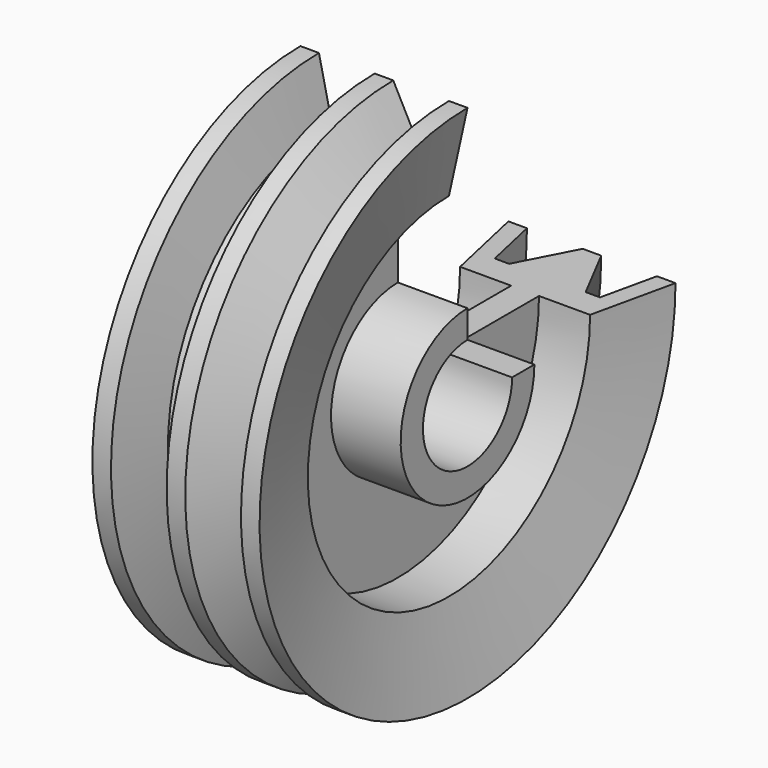
from build123d import *

# Parameters (mm, degrees)
REVOLUTION_ANGLE = 270


with BuildPart() as part:
    # Sketch → Revolution (revolve)
    with BuildSketch(Plane.XZ):
        Polygon((-45, 30), (45, 30), (45, 45), (7.5, 45), (7.5, 95), (35, 95), (45, 140), (35, 140), (28.333333, 110), (20.597845, 110), (5, 140), (-5, 140), (-20.597845, 110), (-28.333333, 110), (-35, 140), (-45, 140), (-35, 95), (-7.5, 95), (-7.5, 45), (-45, 45), align=None)
    revolve(axis=Axis((0, 0, 0), (1, 0, 0)), revolution_arc=REVOLUTION_ANGLE)


solid = part.part
